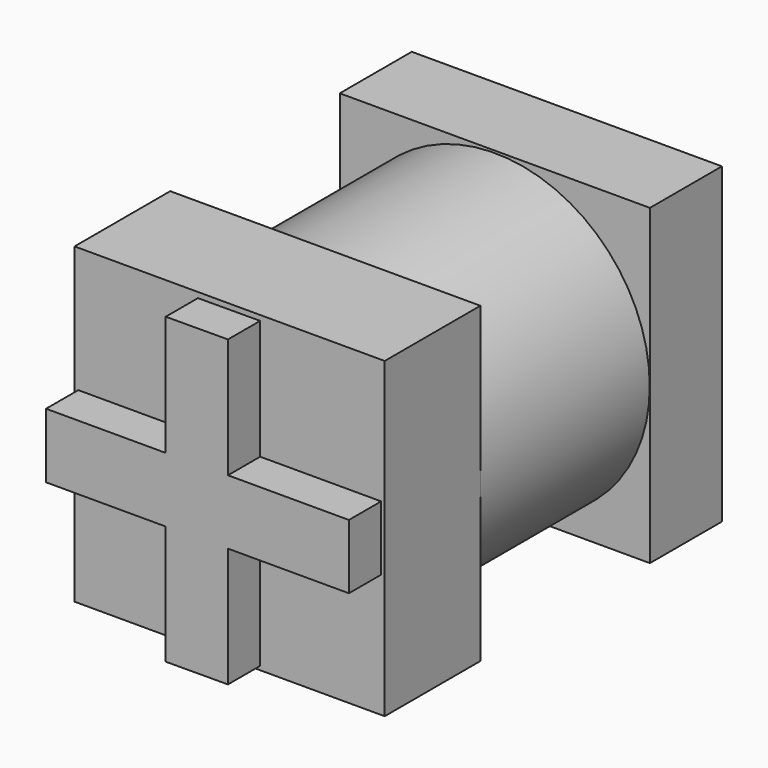
from build123d import *

# Parameters (mm, degrees)
F0_R     = 33.229204682
F0_R_2   = 23.4724850114
F1_DEPTH = 48.006
F2_W     = 66.5346346796
F2_H     = 67.0961048454
F3_DEPTH = 19.304
F5_START = 22.098
F5_DEPTH = 9.652
F6_START = 45.466
F6_DEPTH = 25.654


with BuildPart() as f1:
    # F0 (on Front) → F1 (new body)
    with BuildSketch(Plane.XZ):
        Circle(F0_R)
        Circle(F0_R_2, mode=Mode.SUBTRACT)
    extrude(amount=F1_DEPTH)

    # F2 (on face) → F3 (join)
    with BuildSketch(Plane.XZ):
        with Locations((-1.8626e-06, 0.1403680071)):
            Rectangle(F2_W, F2_H)
    extrude(amount=-F3_DEPTH)


with BuildPart() as f5:
    # F4 (on face) → F5 (new body)
    with BuildSketch(Plane.XZ.offset(48.006).offset(F5_START)):
        Polygon((-6.8002606187, -7.0948041975), (-6.8002606187, -32.6273733594), (6.5529856074, -32.576654577), (6.5529856074, -6.9235055707), (32.499924837, -6.9235055707), (32.499924837, 6.9235055707), (6.5529856074, 6.9235055707), (6.5529856074, 32.576654577), (-6.8002606187, 32.5259357947), (-6.8002606187, 6.8058026955), (-32.4629603887, 6.8058026955), (-32.4629603887, -7.0948041975), align=None)
    extrude(amount=F5_DEPTH)


with BuildPart() as f6:
    # F2 (on face) → F6 (new body)
    with BuildSketch(Plane.XZ.offset(F6_START)):
        with Locations((-1.8626e-06, 0.1403680071)):
            Rectangle(F2_W, F2_H)
    extrude(amount=F6_DEPTH)


solid = Compound([f1.part, f5.part, f6.part])
